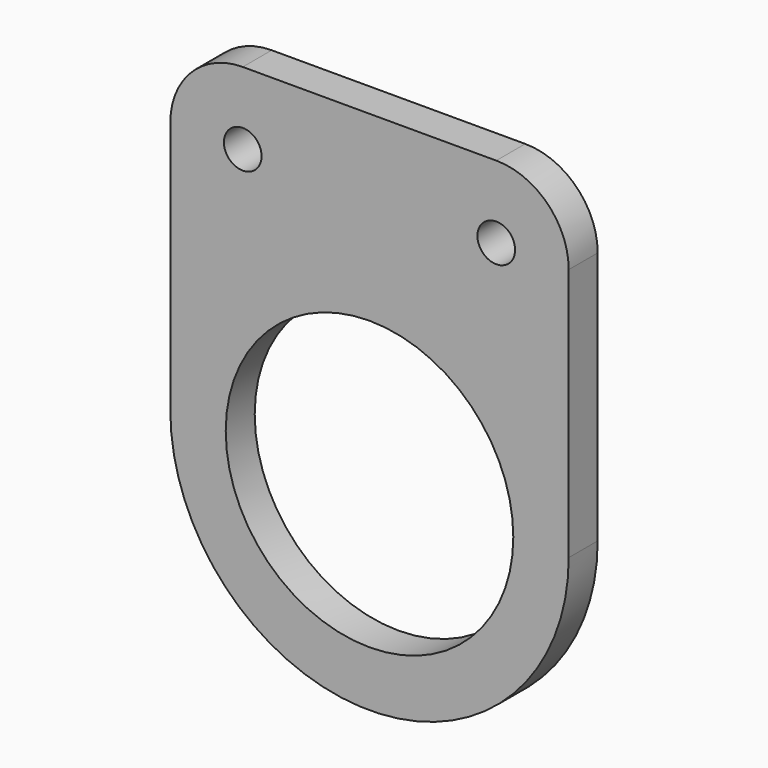
from build123d import *

# Parameters (mm, degrees)
F0_R     = 19.85
F0_R_2   = 2.6
F1_DEPTH = 5


with BuildPart() as f1:
    # F0 (on Front) → F1 (new body)
    with BuildSketch(Plane.XZ):
        with BuildLine():
            Line((-27.5, 35), (-27.5, 0))
            ThreePointArc((-27.5, 0), (0, -27.5), (27.5, 0))
            Line((27.5, 0), (27.5, 35))
            ThreePointArc((27.5, 35), (24.571068, 42.071068), (17.5, 45))
            Line((17.5, 45), (-17.5, 45))
            ThreePointArc((-17.5, 45), (-24.571068, 42.071068), (-27.5, 35))
        make_face()
        Circle(F0_R, mode=Mode.SUBTRACT)
        with Locations((-17.5, 35)):
            Circle(F0_R_2, mode=Mode.SUBTRACT)
        with Locations((17.5, 35)):
            Circle(F0_R_2, mode=Mode.SUBTRACT)
    extrude(amount=F1_DEPTH)


solid = f1.part
